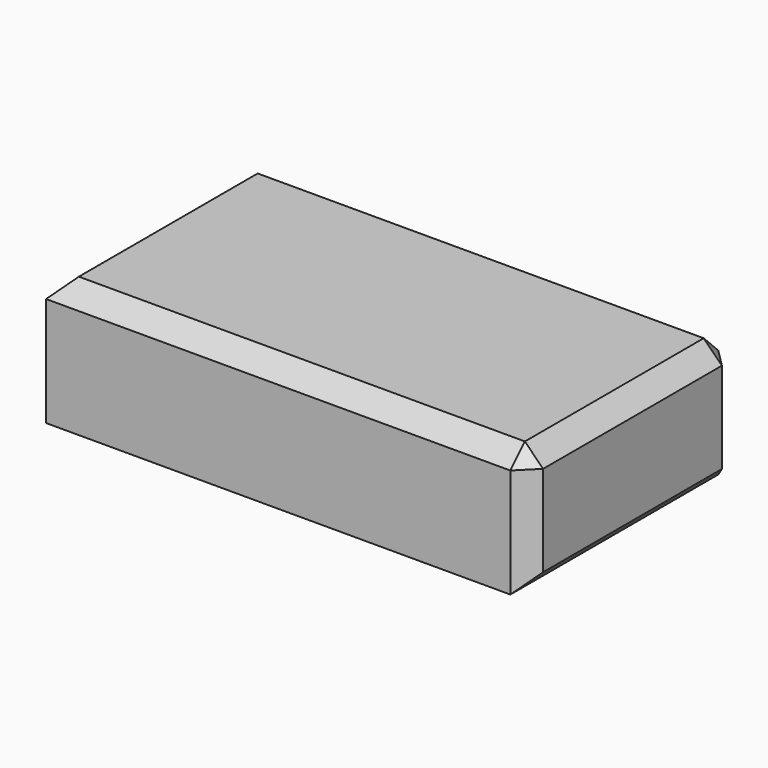
from build123d import *

# Parameters (mm, degrees)
F0_W     = 134.667195
F0_H     = 72.552154
F1_DEPTH = 35.56
F2_SIZE  = 5.08


with BuildPart() as f1:
    # F0 (on Top) → F1 (new body)
    with BuildSketch(Plane.XY):
        with Locations((47.864389, -50.7639)):
            Rectangle(F0_W, F0_H)
    extrude(amount=F1_DEPTH)

    # F2
    f2_edges = [f1.edges().sort_by_distance(p)[0] for p in [
        (47.864389, -14.487823, 35.56),
        (-19.469209, -50.7639, 35.56),
        (47.864389, -87.039977, 35.56),
        (115.197986, -50.7639, 35.56),
        (115.197986, -87.039977, 17.78),
        (115.197986, -14.487823, 17.78),
        (115.197986, -50.7639, 0),
    ]]
    chamfer(f2_edges, length=F2_SIZE)


solid = f1.part
